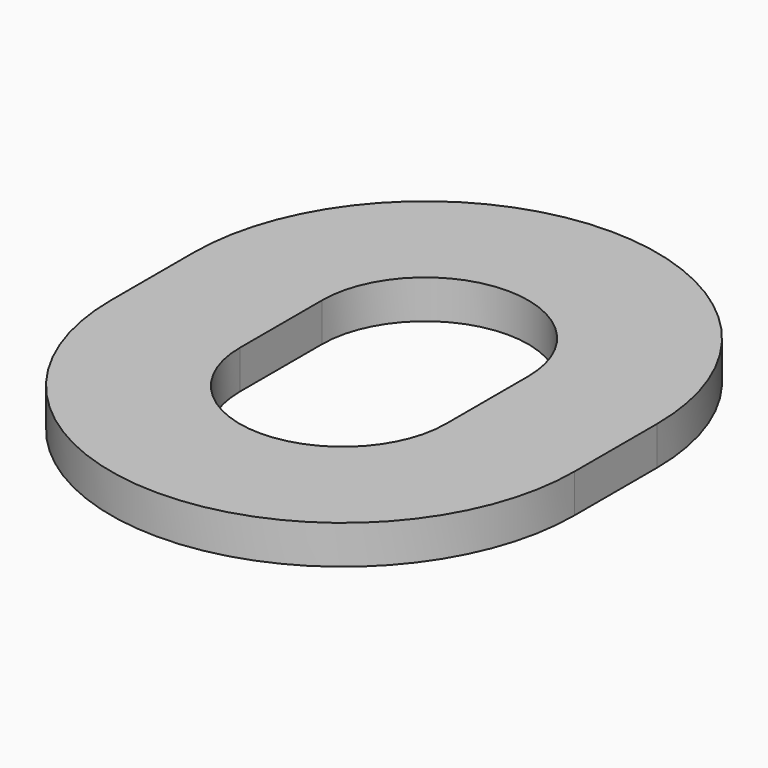
from build123d import *

# Parameters (mm, degrees)
F1_DEPTH = 0.762


with BuildPart() as f1:
    # F0 (on Top) → F1 (new body)
    with BuildSketch(Plane.XY):
        with BuildLine():
            Line((4.572, -1.016), (4.572, 1.016))
            ThreePointArc((4.572, 1.016), (0, 5.588), (-4.572, 1.016))
            Line((-4.572, 1.016), (-4.572, -1.016))
            ThreePointArc((-4.572, -1.016), (0, -5.588), (4.572, -1.016))
        make_face()
        with BuildLine():
            Line((-2.032, -1.016), (-2.032, 1.016))
            ThreePointArc((-2.032, 1.016), (0, 3.048), (2.032, 1.016))
            Line((2.032, 1.016), (2.032, -1.016))
            ThreePointArc((2.032, -1.016), (0, -3.048), (-2.032, -1.016))
        make_face(mode=Mode.SUBTRACT)
    extrude(amount=F1_DEPTH)


solid = f1.part
